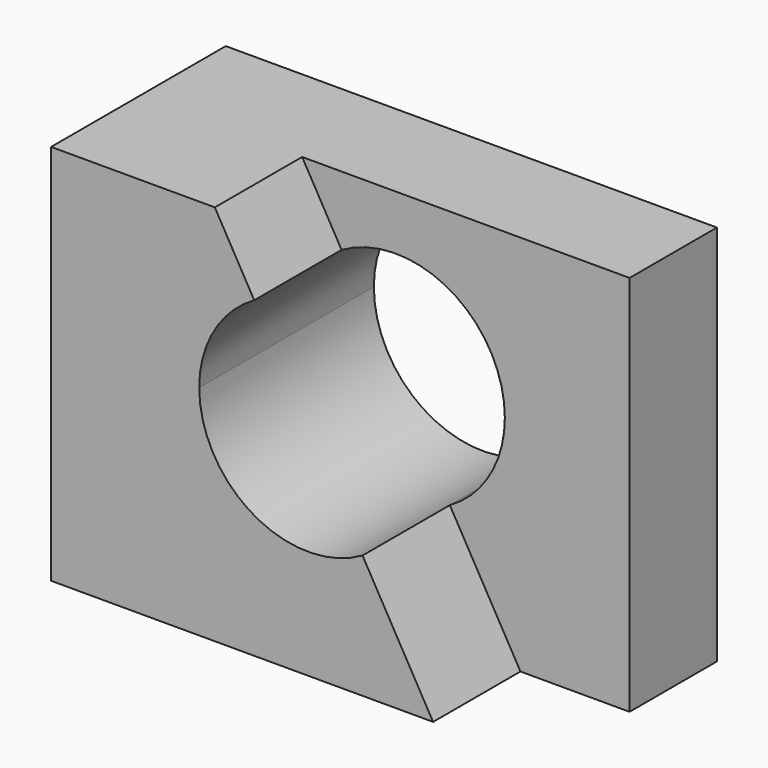
from build123d import *

# Parameters (mm, degrees)
F0_W     = 57.15
F0_H     = 44.45
F1_DEPTH = 25.4
F3_DEPTH = 12.7
F5_DEPTH = 25.4


with BuildPart() as f1:
    # F0 (on Front) → F1 (new body)
    with BuildSketch(Plane.XZ):
        with Locations((8.218082, 9.456021)):
            Rectangle(F0_W, F0_H)
    extrude(amount=F1_DEPTH)

    # F2 (on face) → F3 (cut)
    with BuildSketch(Plane.XZ.offset(25.4)):
        Polygon((36.793082, 31.681021), (-1.306918, 31.681021), (24.093082, -12.768979), (36.793082, -12.768979), align=None)
    extrude(amount=-F3_DEPTH, mode=Mode.SUBTRACT)

    # F4 (on face) → F5 (cut)
    with BuildSketch(Plane.XZ.offset(25.4)):
        with BuildLine():
            Line((3.277831, 23.657709), (9.578796, 12.631021))
            Line((9.578796, 12.631021), (22.278796, 12.631021))
            ThreePointArc((22.278796, 12.631021), (15.953267, 23.61538), (3.277831, 23.657709))
        make_face()
        with BuildLine():
            Line((9.578796, 12.631021), (-3.121204, 12.631021))
            ThreePointArc((-3.121204, 12.631021), (3.204325, 1.646663), (15.87976, 1.604333))
            Line((15.87976, 1.604333), (9.578796, 12.631021))
        make_face()
        with BuildLine():
            Line((9.578796, 12.631021), (15.87976, 1.604333))
            ThreePointArc((15.87976, 1.604333), (20.563154, 6.256551), (22.278796, 12.631021))
            Line((22.278796, 12.631021), (9.578796, 12.631021))
        make_face()
        with BuildLine():
            ThreePointArc((3.277831, 23.657709), (-1.405562, 19.005492), (-3.121204, 12.631021))
            Line((-3.121204, 12.631021), (9.578796, 12.631021))
            Line((9.578796, 12.631021), (3.277831, 23.657709))
        make_face()
    extrude(amount=-F5_DEPTH, mode=Mode.SUBTRACT)


solid = f1.part
